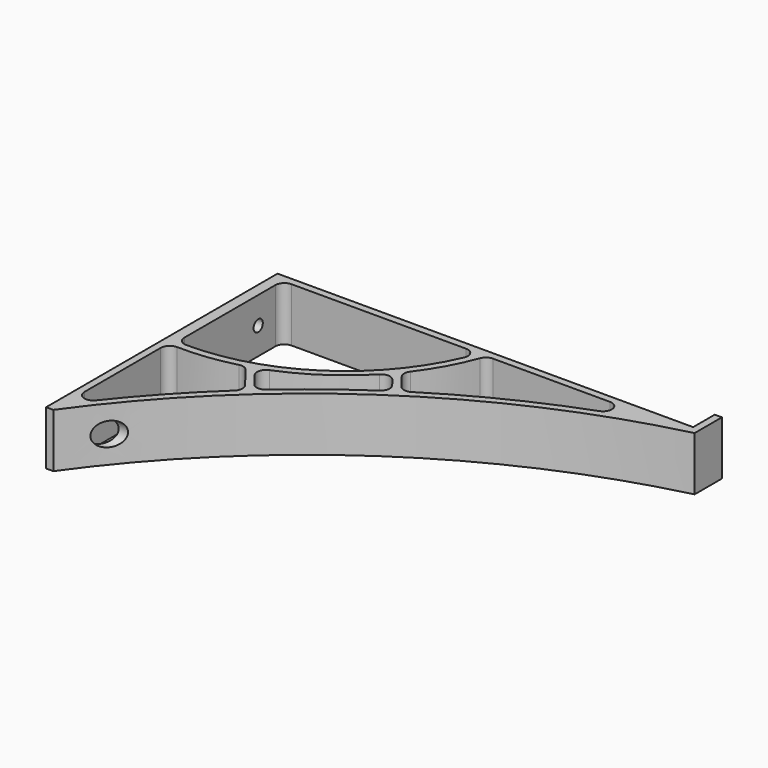
from build123d import *

# Parameters (mm, degrees)
PAD007_DEPTH    = 15
FILLET004_R     = 5
SKETCH016_R     = 3.2
POCKET007_DEPTH = 9.001
SKETCH017_R     = 6.5
POCKET008_DEPTH = 231.001


with BuildPart() as part:
    # Sketch015 → Pad007 (new body, symmetric)
    with BuildSketch(Plane.XY):
        with BuildLine():
            Line((231, 76.944483), (231, 80.944483))
            Line((231, 95.944483), (231, 80.944483))
            Line((227, 95.944483), (231, 95.944483))
            Line((227, 80.944483), (227, 95.944483))
            Line((227, 80.944483), (-4, 80.944483))
            Line((-4, 80.944483), (-4, -79.894546))
            Line((-4, -79.894546), (0, -79.894546))
            ThreePointArc((231, 76.944483), (101.370956, 19.334898), (0, -79.894546))
        make_face()
        with BuildLine():
            Line((0, -73.055517), (0, 0))
            ThreePointArc((0, 0), (20.003059, 0.422481), (39.624191, 4.335541))
            Line((39.624191, 4.335541), (53.376827, -13.501329))
            ThreePointArc((53.376827, -13.501329), (25.211158, -41.954399), (0, -73.055517))
        make_face(mode=Mode.SUBTRACT)
        with BuildLine():
            Line((2, 76.944483), (111.264747, 76.944483))
            ThreePointArc((2, 3.888966), (68.743581, 22.302719), (111.264747, 76.944483))
            Line((2, 3.888966), (2, 76.944483))
        make_face(mode=Mode.SUBTRACT)
        with BuildLine():
            ThreePointArc((215.369261, 76.944483), (159.431544, 56.441008), (107.117433, 27.933914))
            Line((96.234655, 42.048639), (107.117433, 27.933914))
            ThreePointArc((96.234655, 42.048639), (107.404352, 58.647999), (115.5, 76.944483))
            Line((115.5, 76.944483), (215.369261, 76.944483))
        make_face(mode=Mode.SUBTRACT)
        with BuildLine():
            Line((93.602426, 38.911672), (103.756041, 25.742655))
            ThreePointArc((103.756041, 25.742655), (79.375609, 8.346637), (56.350936, -10.807771))
            Line((43.69293, 5.609386), (56.350936, -10.807771))
            ThreePointArc((43.69293, 5.609386), (70.877923, 18.918104), (93.602426, 38.911672))
        make_face(mode=Mode.SUBTRACT)
    extrude(amount=PAD007_DEPTH, both=True)

    # Fillet004
    fillet004_edges = [part.edges().sort_by_distance(p)[0] for p in [
        (2, 76.944483, 0),
        (111.264747, 76.944483, 0),
        (115.5, 76.944483, 0),
        (2, 3.888966, 0),
        (0, 0, 0),
        (43.69293, 5.609386, 0),
        (39.624191, 4.335541, 0),
        (96.234655, 42.048639, 0),
        (93.602426, 38.911672, 0),
        (215.369261, 76.944483, 0),
        (0, -73.055517, 0),
        (53.376827, -13.501329, 0),
        (56.350936, -10.807771, 0),
        (103.756041, 25.742655, 0),
        (107.117433, 27.933914, 0),
    ]]
    fillet(fillet004_edges, radius=FILLET004_R)

    # Sketch016 → Pocket007 (cut, through all)
    with BuildSketch(Plane.YZ.offset(5)):
        with Locations((-60, 0)):
            Circle(SKETCH016_R)
        with Locations((60, 0)):
            Circle(SKETCH016_R)
    extrude(amount=-POCKET007_DEPTH, mode=Mode.SUBTRACT)

    # Sketch017 → Pocket008 (cut, through all)
    with BuildSketch(Plane.YZ):
        with Locations((-60, 0)):
            Circle(SKETCH017_R)
    extrude(amount=POCKET008_DEPTH, mode=Mode.SUBTRACT)


solid = part.part
